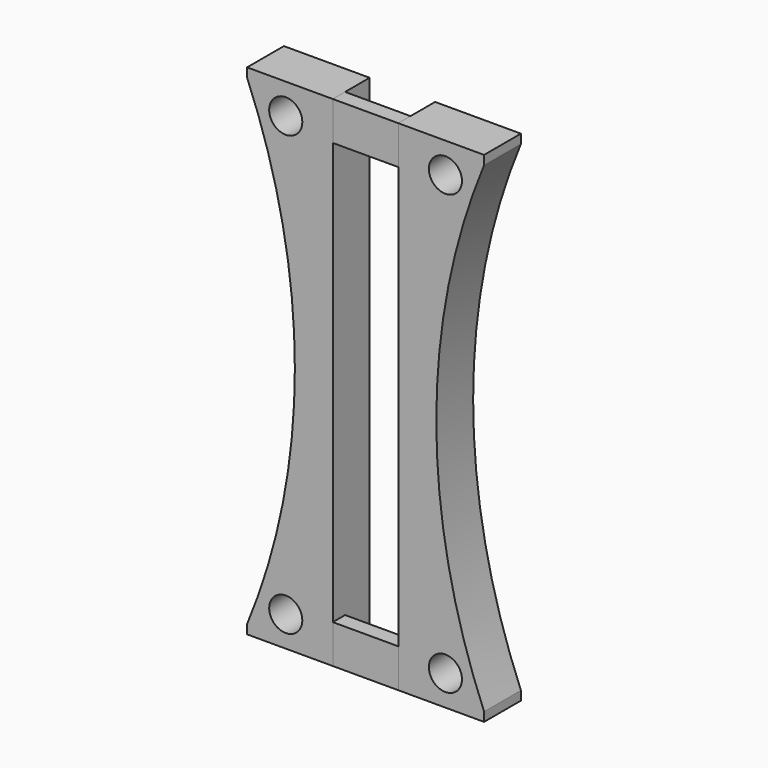
from build123d import *

# Parameters (mm, degrees)
F0_R     = 3.4241876024
F1_DEPTH = 9.525
F0_W     = 13.5395024959
F0_H     = 7.9965023652
F2_DEPTH = 3.175


with BuildPart() as f1:
    # F0 (on Front) → F1 (new body)
    with BuildSketch(Plane.XZ):
        with BuildLine():
            Line((-24.511, -51.6295505173), (-6.7796365268, -51.6295505173))
            Line((-6.7796365268, -51.6295505173), (-6.7796365268, -43.6330481522))
            Line((-6.7796365268, -43.6330481522), (-6.7796365268, 43.6330481522))
            Line((-6.7796365268, 43.6330481522), (-6.7796365268, 51.6295505173))
            Line((-6.7796365268, 51.6295505173), (-24.511, 51.6295505173))
            Line((-24.511, 51.6295505173), (-24.511, 49.748035513))
            ThreePointArc((-24.511, 49.748035513), (-17.1242555766, 25.3599005783), (-14.6301502406, 0))
            ThreePointArc((-14.6301502406, 0), (-17.1242555766, -25.3599005783), (-24.511, -49.748035513))
            Line((-24.511, -49.748035513), (-24.511, -51.6295505173))
        make_face()
        with Locations((-16.5145020448, -45.3714283937)):
            Circle(F0_R, mode=Mode.SUBTRACT)
        with Locations((-16.5145020448, 45.3714283937)):
            Circle(F0_R, mode=Mode.SUBTRACT)
    extrude(amount=-F1_DEPTH)


with BuildPart() as f1b:
    # F0 (on Front) → F1, piece 2 (new body)
    with BuildSketch(Plane.XZ):
        with BuildLine():
            Line((6.7598659691, -51.6295505173), (24.511, -51.6295505173))
            Line((24.511, -51.6295505173), (24.511, -49.748035513))
            ThreePointArc((24.511, -49.748035513), (14.6301502406, 0), (24.511, 49.748035513))
            Line((24.511, 49.748035513), (24.511, 51.6295505173))
            Line((24.511, 51.6295505173), (6.7598659691, 51.6295505173))
            Line((6.7598659691, 51.6295505173), (6.7598659691, 43.6330481522))
            Line((6.7598659691, 43.6330481522), (6.7796365268, 43.6330481522))
            Line((6.7796365268, 43.6330481522), (6.7796365268, -43.6330481522))
            Line((6.7796365268, -43.6330481522), (6.7598659691, -43.6330481522))
            Line((6.7598659691, -43.6330481522), (6.7598659691, -51.6295505173))
        make_face()
        with Locations((16.5145020448, -45.3714283937)):
            Circle(F0_R, mode=Mode.SUBTRACT)
        with Locations((16.5145020448, 45.3714283937)):
            Circle(F0_R, mode=Mode.SUBTRACT)
    extrude(amount=-F1_DEPTH)


with BuildPart() as f2:
    # F0 (on Front) → F2 (new body)
    with BuildSketch(Plane.XZ):
        with Locations((-0.0098852789, -47.6312993348)):
            Rectangle(F0_W, F0_H)
    extrude(amount=-F2_DEPTH)


with BuildPart() as f2b:
    # F0 (on Front) → F2, piece 2 (new body)
    with BuildSketch(Plane.XZ):
        with Locations((-0.0098852789, 47.6312993348)):
            Rectangle(F0_W, F0_H)
    extrude(amount=-F2_DEPTH)


solid = Compound([f1.part, f1b.part, f2.part, f2b.part])
